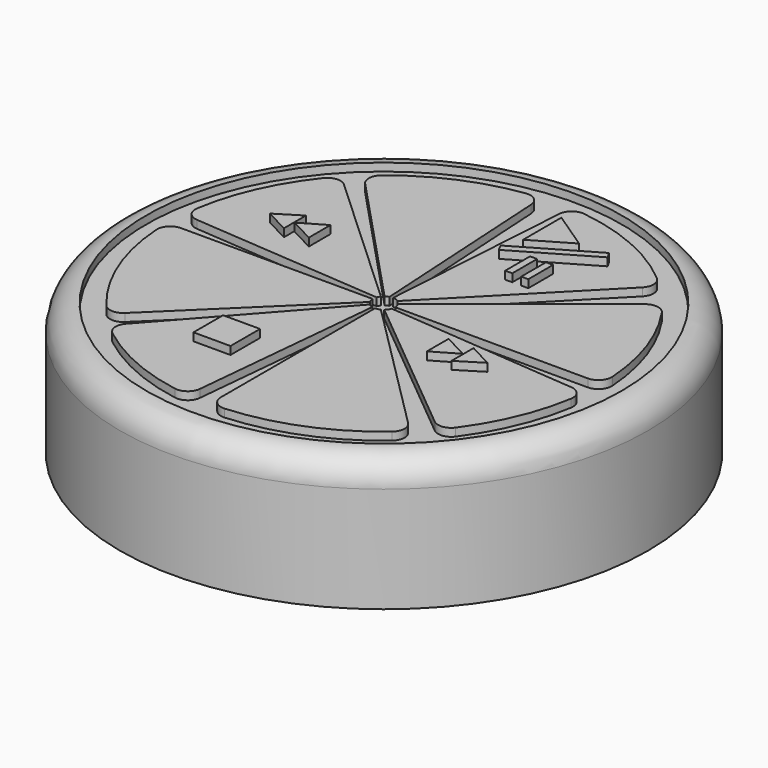
from build123d import *

# Parameters (mm, degrees)
F0_R      = 100
F1_DEPTH  = 50
F2_R      = 10
F1_FACE_R = 90
F3_DEPTH  = 3
F5_DEPTH  = 3
F7_W      = 2.681116
F7_H      = 11.75565
F7_W_2    = 14
F7_H_2    = 14
F8_DEPTH  = 3


with BuildPart() as f1:
    # F0 (on Top) → F1 (new body)
    with BuildSketch(Plane.XY):
        Circle(F0_R)
    extrude(amount=F1_DEPTH)

    # F2
    f2_edges = [f1.edges().sort_by_distance(p)[0] for p in [
        (-100, 0, 50),
    ]]
    fillet(f2_edges, radius=F2_R)

    # F1_face (on face) → F3 (cut)
    with BuildSketch(Plane.XY.offset(50)):
        Circle(F1_FACE_R)
    extrude(amount=-F3_DEPTH, mode=Mode.SUBTRACT)

    # F4 (on face) → F5 (join)
    with BuildSketch(Plane.XY.offset(47)):
        with BuildLine():
            ThreePointArc((53.019027, 62.901433), (33.066942, 75.327185), (10.415382, 81.603476))
            ThreePointArc((10.415382, 81.603476), (6.603495, 80.503103), (4.793179, 76.972655))
            Line((4.793179, 76.972655), (0, 4.273428))
            ThreePointArc((0, 4.273428), (1.220514, 4.095428), (2.339353, 3.576257))
            Line((2.339353, 3.576257), (53.365395, 55.576407))
            ThreePointArc((53.365395, 55.576407), (54.791012, 59.31452), (53.019027, 62.901433))
        make_face()
        with BuildLine():
            Line((60.673054, 47.679128), (3.6639, 2.19955))
            ThreePointArc((3.6639, 2.19955), (4.118228, 1.141221), (4.273428, 0))
            Line((4.273428, 0), (77.20216, 0))
            ThreePointArc((77.20216, 0), (80.850155, 1.580624), (82.191706, 5.323148))
            ThreePointArc((82.191706, 5.323148), (77.83869, 26.924909), (67.913987, 46.599387))
            ThreePointArc((67.913987, 46.599387), (64.528614, 48.715836), (60.673054, 47.679128))
        make_face()
        with BuildLine():
            Line((76.89521, -7.459046), (4.048797, -1.367271))
            ThreePointArc((4.048797, -1.367271), (3.521918, -2.420388), (2.727619, -3.289723))
            Line((2.727619, -3.289723), (59.141904, -49.88977))
            ThreePointArc((59.141904, -49.88977), (62.935195, -50.997631), (66.348065, -49.005464))
            ThreePointArc((66.348065, -49.005464), (76.013771, -32.023551), (81.413661, -13.244508))
            ThreePointArc((81.413661, -13.244508), (80.419138, -9.364044), (76.89521, -7.459046))
        make_face()
        with BuildLine():
            Line((53.523655, -55.496099), (1.881672, -3.83686))
            ThreePointArc((1.881672, -3.83686), (0.965826, -4.162855), (0, -4.273428))
            Line((0, -4.273428), (0, -77.190785))
            ThreePointArc((0, -77.190785), (1.580642, -80.838796), (5.323196, -82.180328))
            ThreePointArc((5.323196, -82.180328), (30.825875, -76.365622), (53.21868, -62.846757))
            ThreePointArc((53.21868, -62.846757), (54.983233, -59.238312), (53.523655, -55.496099))
        make_face()
        with BuildLine():
            ThreePointArc((-1.125943, -4.122431), (-1.961033, -3.796911), (-2.709859, -3.304368))
            Line((-2.709859, -3.304368), (-51.280371, -57.962817))
            ThreePointArc((-51.280371, -57.962817), (-52.52156, -61.744691), (-50.6076, -65.234659))
            ThreePointArc((-50.6076, -65.234659), (-33.298804, -75.55051), (-14.006687, -81.366471))
            ThreePointArc((-14.006687, -81.366471), (-10.12515, -80.413756), (-8.181768, -76.921298))
            Line((-8.181768, -76.921298), (-1.125943, -4.122431))
        make_face()
        with BuildLine():
            ThreePointArc((-3.751637, -2.046315), (-4.140926, -1.055896), (-4.273428, 0))
            Line((-4.273428, 0), (-76.929663, 0))
            ThreePointArc((-76.929663, 0), (-80.578049, -1.581041), (-81.919135, -5.324288))
            ThreePointArc((-81.919135, -5.324288), (-76.277786, -30.344556), (-63.190557, -52.402731))
            ThreePointArc((-63.190557, -52.402731), (-59.607242, -54.203971), (-55.85314, -52.792826))
            Line((-55.85314, -52.792826), (-3.751637, -2.046315))
        make_face()
        with BuildLine():
            ThreePointArc((-3.992636, 1.523496), (-3.70279, 2.133433), (-3.320478, 2.690094))
            Line((-3.320478, 2.690094), (-56.699298, 51.911248))
            ThreePointArc((-56.699298, 51.911248), (-60.462161, 53.221499), (-63.987913, 51.365437))
            ThreePointArc((-63.987913, 51.365437), (-75.024742, 33.228741), (-81.038817, 12.867449))
            ThreePointArc((-81.038817, 12.867449), (-80.025089, 8.98514), (-76.484046, 7.098084))
            Line((-76.484046, 7.098084), (-3.992636, 1.523496))
        make_face()
        with BuildLine():
            ThreePointArc((-2.536746, 3.439056), (-1.913037, 3.821319), (-1.233269, 4.091605))
            Line((-1.233269, 4.091605), (-5.433671, 76.419476))
            ThreePointArc((-5.433671, 76.419476), (-7.248956, 79.99108), (-11.103634, 81.083359))
            ThreePointArc((-11.103634, 81.083359), (-32.563457, 75.082775), (-51.60924, 63.516046))
            ThreePointArc((-51.60924, 63.516046), (-53.4449, 59.971321), (-52.100808, 56.212578))
            Line((-52.100808, 56.212578), (-2.536746, 3.439056))
        make_face()
    extrude(amount=F5_DEPTH)

    # F7 (on face) → F8 (join)
    with BuildSketch(Plane.XY.offset(50)):
        Polygon((24.804033, 61.312177), (10.367269, 71.005437), (10.367269, 52.856359), align=None)
        Polygon((35.528484, 62.137136), (7.479916, 45.844217), (8.79458, 43.327766), (36.953135, 59.684574), align=None)
        with Locations((19.957405, 39.966392)):
            Rectangle(F7_W, F7_H)
        with Locations((26.019179, 39.966392)):
            Rectangle(F7_W, F7_H)
        with Locations((-21.684457, -47.305547)):
            Rectangle(F7_W_2, F7_H_2)
        Polygon((42.08035, -15.2739), (32.804038, -10.438373), (32.804038, -20.701531), align=None)
        Polygon((51.35667, -15.2739), (42.27772, -10.438373), (42.27772, -20.898901), align=None)
        Polygon((-49.238652, 19.220938), (-39.96234, 14.385412), (-39.96234, 24.64857), align=None)
        Polygon((-58.514971, 19.220938), (-49.436022, 14.385412), (-49.436022, 24.845939), align=None)
    extrude(amount=F8_DEPTH)


solid = f1.part
